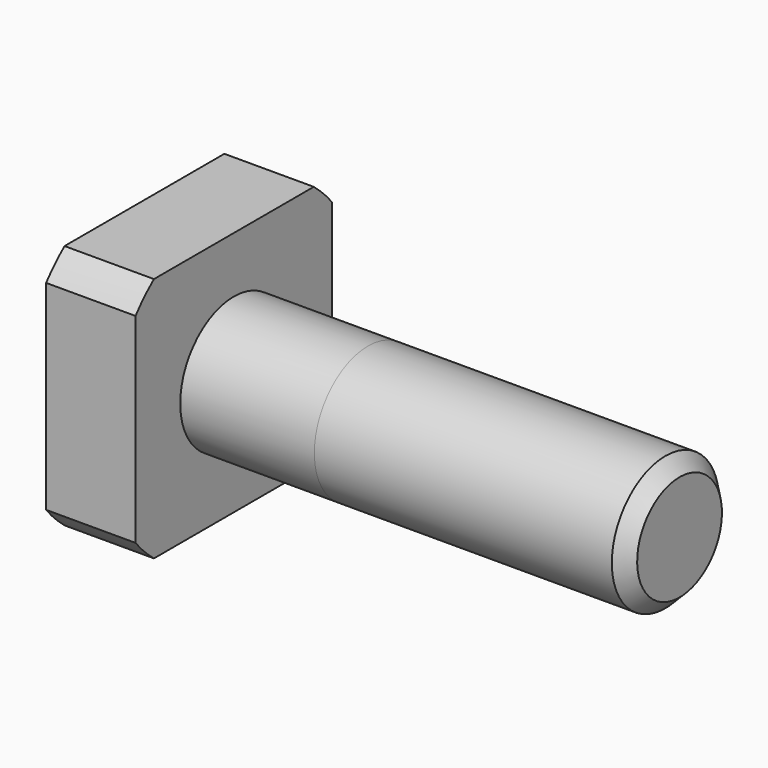
from build123d import *

# Parameters (mm, degrees)
F2_W     = 2.51875
F2_H     = 14.188414
F2_W_2   = 14.188414
F2_H_2   = 2.51875
F3_DEPTH = 6.35
F4_SIZE  = 1


with BuildPart() as f1:
    # F0 (on Front) → F1 (revolve)
    with BuildSketch(Plane.XZ):
        Polygon((0, 11.25), (0, 0), (38, 0), (38, 4.7625), (15.875, 4.7625), (15.875, 4.76), (6.35, 4.76), (6.35, 11.25), align=None)
        Polygon((0, 11.25), (0, 0), (38, 0), (38, 4.7625), (15.875, 4.7625), (15.875, 4.76), (6.35, 4.76), (6.35, 11.25), align=None)
        Polygon((0, 11.25), (0, 0), (38, 0), (38, 4.7625), (15.875, 4.7625), (15.875, 4.76), (6.35, 4.76), (6.35, 11.25), align=None)
        Polygon((0, 11.25), (0, 0), (38, 0), (38, 4.7625), (15.875, 4.7625), (15.875, 4.76), (6.35, 4.76), (6.35, 11.25), align=None)
    revolve(axis=Axis((19, 0, 0), (1, 0, 0)))

    # F2 (on face) → F3 (cut, through all)
    with BuildSketch(Plane(origin=(0, 0, 0), x_dir=(0, -1, 0), z_dir=(-1, 0, 0))):
        with Locations((-9.990625, 0)):
            Rectangle(F2_W, F2_H)
        with Locations((9.990625, 0)):
            Rectangle(F2_W, F2_H)
        with Locations((0, 9.990625)):
            Rectangle(F2_W_2, F2_H_2)
        with Locations((0, -9.990625)):
            Rectangle(F2_W_2, F2_H_2)
    extrude(amount=-F3_DEPTH, mode=Mode.SUBTRACT)

    # F4
    f4_edges = [f1.edges().sort_by_distance(p)[0] for p in [
        (38, 0, -4.7625),
    ]]
    chamfer(f4_edges, length=F4_SIZE)


solid = f1.part
